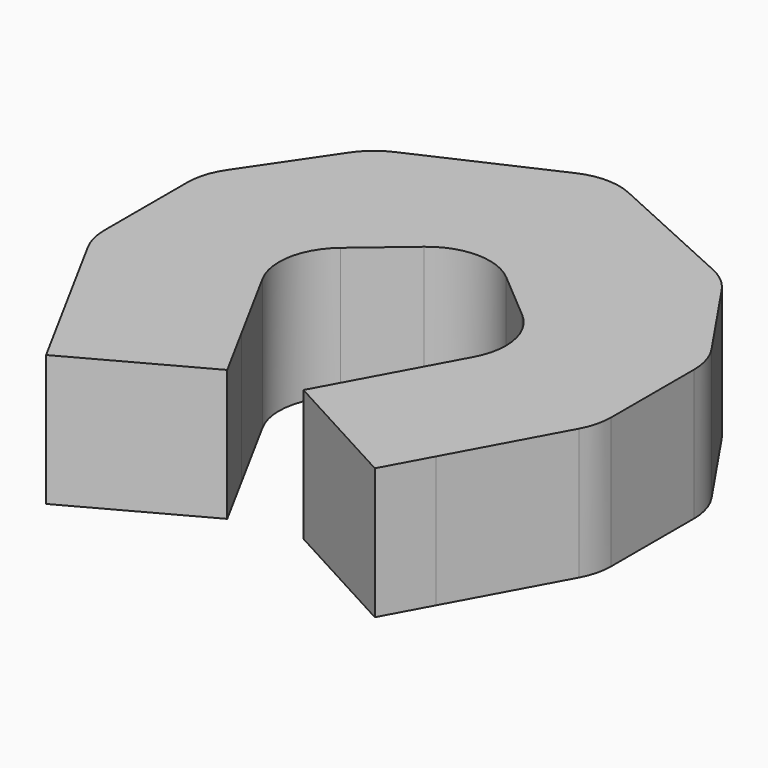
from build123d import *

# Parameters (mm, degrees)
F1_DEPTH = 6.1866333708
F2_R     = 3
F3_DEPTH = 2.4449569173
F4_DEPTH = 3.0221138149


with BuildPart() as f1:
    # F0 (on Top) → F1 (new body)
    with BuildSketch(Plane.XY):
        Polygon((8.3008821889, 36.7345147961), (0, 40.5132766051), (-8.3008821889, 36.7345147961), (-11.9557498605, 31.3451354549), (-11.9557498605, 24.7787649356), (-8.8584089335, 19.0796471245), (-2.9014659626, 22.3171101626), (-6.1513614195, 28.2969288261), (0, 33.5132766051), (6.1513614195, 28.2969288261), (2.9014659626, 22.3171101626), (8.8584089335, 19.0796471245), (11.9557498605, 24.7787649356), (11.9557498605, 31.3451354549), align=None)
    extrude(amount=F1_DEPTH)

    # F2
    f2_edges = [f1.edges().sort_by_distance(p)[0] for p in [
        (-11.95575, 24.778765, 3.093317),
        (0, 40.513277, 3.093317),
        (11.95575, 31.345135, 3.093317),
        (-11.95575, 31.345135, 3.093317),
        (6.151361, 28.296929, 3.093317),
        (8.300882, 36.734515, 3.093317),
        (-8.300882, 36.734515, 3.093317),
        (0, 33.513277, 3.093317),
        (11.95575, 24.778765, 3.093317),
        (-6.151361, 28.296929, 3.093317),
    ]]
    fillet(f2_edges, radius=F2_R)

    # F3 (add): a face of the model
    f3_faces = [f1.faces().sort_by_distance(p)[0] for p in [
        (5.879937448, 20.6983786435, 3.0933166854),
    ]]
    extrude(f3_faces, amount=F3_DEPTH)

    # F4 (add): a face of the model
    f4_faces = [f1.faces().sort_by_distance(p)[0] for p in [
        (-5.879937448, 20.6983786435, 3.0933166854),
    ]]
    extrude(f4_faces, amount=F4_DEPTH)


solid = f1.part
